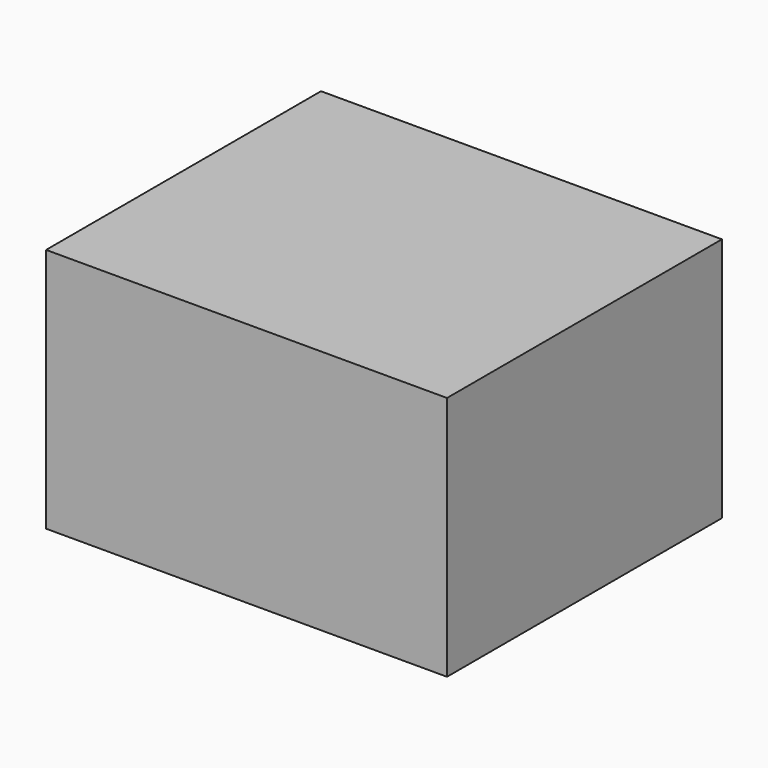
from build123d import *

# Parameters (mm, degrees)
F0_W     = 24.5
F0_H     = 21
F1_DEPTH = 15
F2_T     = -2
F4_DEPTH = 19


with BuildPart() as f1:
    # F0 (on Top) → F1 (new body)
    with BuildSketch(Plane.XY):
        Rectangle(F0_W, F0_H)
    extrude(amount=F1_DEPTH)

    # F2
    f2_openings = [f1.faces().sort_by_distance(p)[0] for p in [
        (0, 0, 0),
        (0, 10.5, 7.5),
    ]]
    offset(amount=F2_T, openings=f2_openings)

    # F3 (on face) → F4 (join)
    with BuildSketch(Plane(origin=(0, -8.5, 0), x_dir=(-1, 0, 0), z_dir=(0, 1, 0))):
        Polygon((-10.25, 2.8284271247), (-10.25, 0), (-8.8357864376, 1.4142135624), align=None)
        Polygon((8.8357864376, 1.4142135624), (10.25, 0), (10.25, 2.8284271247), align=None)
    extrude(amount=F4_DEPTH)


solid = f1.part
